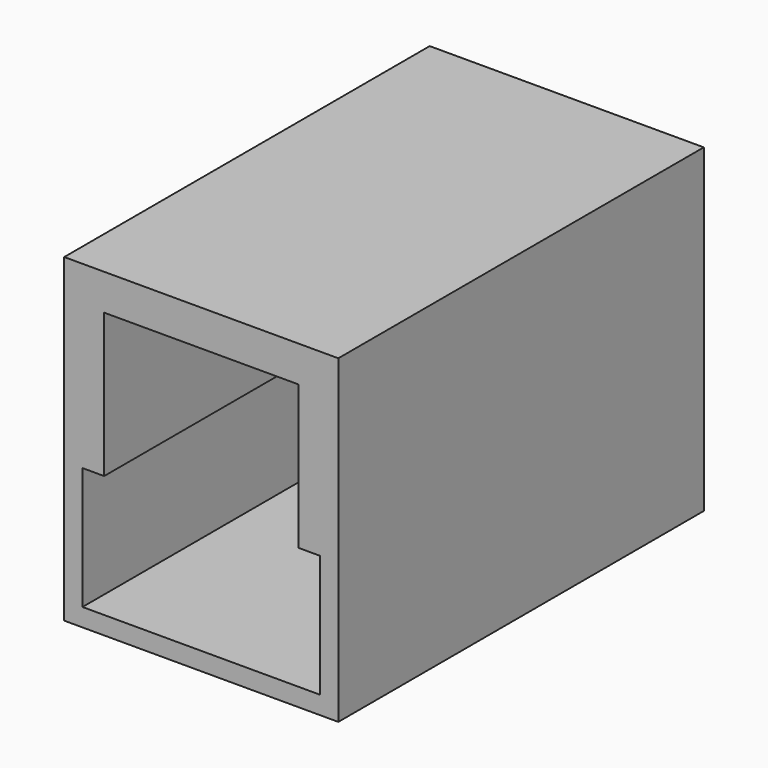
from build123d import *

# Parameters (mm, degrees)
SKETCH_W     = 38.1
SKETCH_H     = 63.5
PAD_DEPTH    = 2.5
PAD001_DEPTH = 17
SKETCH002_W  = 5
SKETCH002_H  = 15
POCKET_DEPTH = 2.54
PAD002_DEPTH = 20
SKETCH004_W  = 38.1
SKETCH004_H  = 63.5
PAD003_DEPTH = 5


with BuildPart() as part:
    # Sketch → Pad (new body)
    with BuildSketch(Plane.XY):
        with Locations((19.05, 31.75)):
            Rectangle(SKETCH_W, SKETCH_H)
    extrude(amount=PAD_DEPTH)

    # Sketch001 (on Face6 of Pad) → Pad001 (join)
    with BuildSketch(Plane.XY.offset(2.5)):
        Polygon((0, 0), (0, 63.5), (38.1, 63.5), (38.1, 0), (35.56, 0), (35.56, 60.96), (2.54, 60.96), (2.54, 0), align=None)
    extrude(amount=PAD001_DEPTH)

    # Sketch002 (on Face8 of Pad001) → Pocket (cut)
    with BuildSketch(Plane(origin=(0, 0, 0), x_dir=(0, -1, 0), z_dir=(-1, 0, 0))):
        with Locations((-55, 7.5)):
            Rectangle(SKETCH002_W, SKETCH002_H)
    extrude(amount=-POCKET_DEPTH, mode=Mode.SUBTRACT)

    # Sketch003 (on Face9 of Pocket) → Pad002 (join)
    with BuildSketch(Plane.XY.offset(19.5)):
        Polygon((0, 0), (5.55, 0), (5.55, 55.5), (32.55, 55.5), (32.55, 0), (38.1, 0), (38.1, 63.5), (0, 63.5), align=None)
    extrude(amount=PAD002_DEPTH)

    # Sketch004 (on Face12 of Pad002) → Pad003 (join)
    with BuildSketch(Plane.XY.offset(39.5)):
        with Locations((19.05, 31.75)):
            Rectangle(SKETCH004_W, SKETCH004_H)
    extrude(amount=PAD003_DEPTH)


solid = part.part
